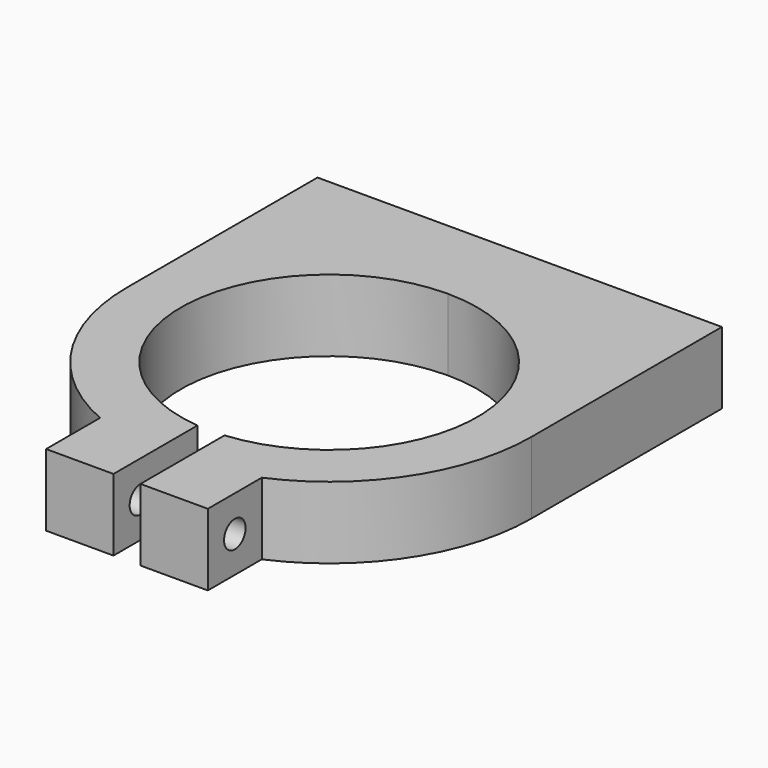
from build123d import *

# Parameters (mm, degrees)
F1_DEPTH = 16
F3_D     = 6


with BuildPart() as f1:
    # F0 (on Top) → F1 (new body)
    with BuildSketch(Plane.XY):
        with BuildLine():
            Line((-45, 53), (-45, 0))
            ThreePointArc((-45, 0), (-37.649701, -24.647515), (-18, -41.243181))
            Line((-18, -41.243181), (-18, -56.243181))
            Line((-18, -56.243181), (-3, -56.243181))
            Line((-3, -56.243181), (-3, -32.863353))
            ThreePointArc((-3, -32.863353), (-32.965821, 1.501555), (0, 33))
            ThreePointArc((0, 33), (32.965821, 1.501555), (3, -32.863353))
            Line((3, -32.863353), (3, -56.243181))
            Line((3, -56.243181), (18, -56.243181))
            Line((18, -56.243181), (18, -41.243181))
            ThreePointArc((18, -41.243181), (37.649701, -24.647515), (45, 0))
            Line((45, 0), (45, 53))
            Line((45, 53), (0, 53))
            Line((0, 53), (-45, 53))
        make_face()
    extrude(amount=F1_DEPTH)

    # F3 (through all)
    with Locations(Plane.YZ.offset(18)):
        with Locations((-48.743181, 8)):
            Hole(F3_D / 2)


solid = f1.part
